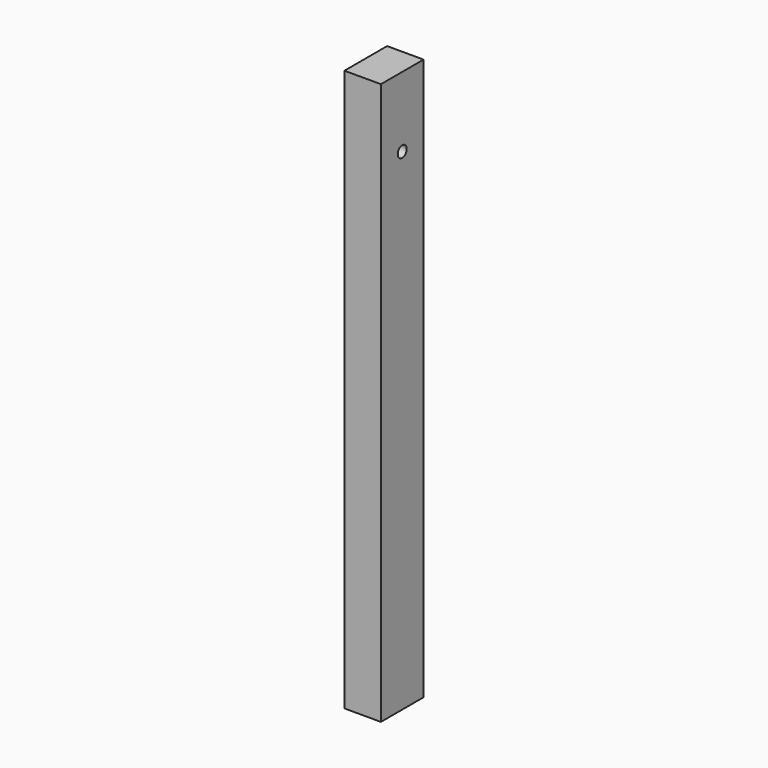
from build123d import *

# Parameters (mm, degrees)
F1_DEPTH = 2000
F3_D     = 40
F3_DEPTH = 50
F3_TIP   = 12.0172123806


with BuildPart() as f1:
    # F0 (on Top) → F1 (new body)
    with BuildSketch(Plane.XY):
        Polygon((-34.2555230263, 181.6535690603), (-65, 181.6535690603), (-65, -8.3464309397), (65, -8.3464309397), (65, 181.6535690603), (34.2555230263, 181.6535690603), align=None)
    extrude(amount=F1_DEPTH)

    # F3
    with Locations(Plane.YZ.offset(65)):
        with Locations((86.6535690603, 1750)):
            Hole(F3_D / 2, depth=F3_DEPTH)
            with Locations((0, 0, -(F3_DEPTH + F3_TIP / 2))):  # 118° drill point
                Cone(0, F3_D / 2, F3_TIP, mode=Mode.SUBTRACT)


solid = f1.part
